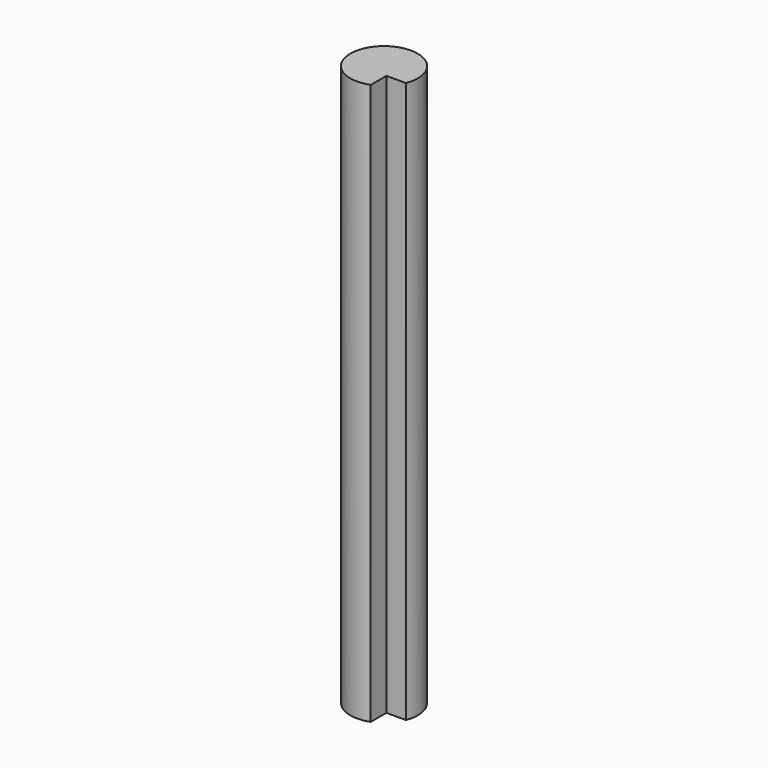
from build123d import *

# Parameters (mm, degrees)
F0_R     = 12
F1_DEPTH = 200
F3_DEPTH = 200.001


with BuildPart() as f1:
    # F0 (on Top) → F1 (new body)
    with BuildSketch(Plane.XY):
        Circle(F0_R)
    extrude(amount=F1_DEPTH)

    # F2 (on face) → F3 (cut, through all)
    with BuildSketch(Plane.XY.offset(200)):
        with BuildLine():
            Line((11.224972, -4.242641), (4.242641, -4.242641))
            Line((4.242641, -4.242641), (4.242641, -11.224972))
            ThreePointArc((4.242641, -11.224972), (8.485281, -8.485281), (11.224972, -4.242641))
        make_face()
    extrude(amount=-F3_DEPTH, mode=Mode.SUBTRACT)


solid = f1.part
